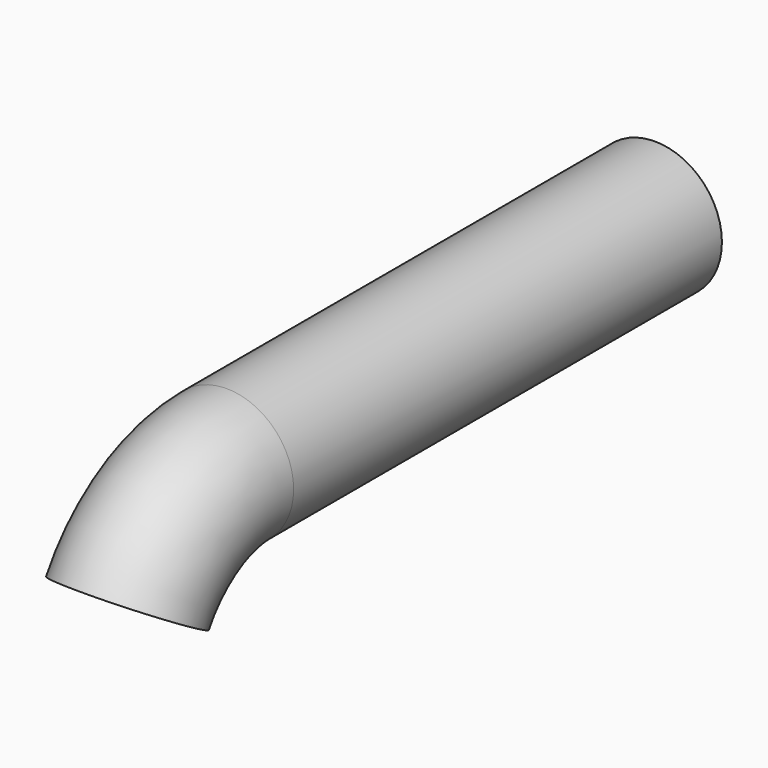
from build123d import *

# Parameters (mm, degrees)
F0_R     = 25.4
F1_ANGLE = 60
F2_DEPTH = 203.2


with BuildPart() as f1:
    # F0 (on Front) → F1 (revolve)
    with BuildSketch(Plane.XZ):
        Circle(F0_R)
    revolve(axis=Axis((25.208503, 0, -54.422956), (1, 0, 0)), revolution_arc=F1_ANGLE)


with BuildPart() as f2:
    # F0 (on Front) → F2 (new body)
    with BuildSketch(Plane.XZ):
        Circle(F0_R)
    extrude(amount=-F2_DEPTH)


solid = Compound([f1.part, f2.part])
